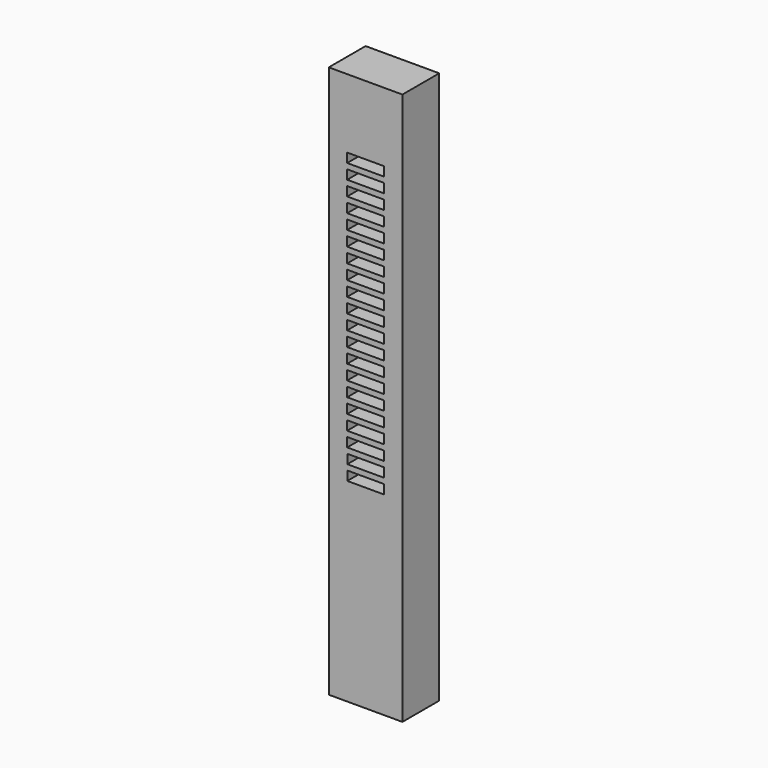
from build123d import *

# Parameters (mm, degrees)
F0_W     = 200
F0_H     = 1500
F0_W_2   = 100
F0_H_2   = 25
F1_DEPTH = 20
F2_W     = 200
F2_H     = 1500
F2_W_2   = 160
F2_H_2   = 1450
F3_DEPTH = 60
F4_W     = 200
F4_H     = 1500
F5_DEPTH = 20
F6_DEPTH = 25


with BuildPart() as f1:
    # F0 (on Front) → F1 (new body)
    with BuildSketch(Plane.XZ):
        Rectangle(F0_W, F0_H)
        with Locations((0.320368, -209.9976)):
            Rectangle(F0_W_2, F0_H_2, mode=Mode.SUBTRACT)
        with Locations((0.320368, -169.9976)):
            Rectangle(F0_W_2, F0_H_2, mode=Mode.SUBTRACT)
        with Locations((0.052069, -130)):
            Rectangle(F0_W_2, F0_H_2, mode=Mode.SUBTRACT)
        with Locations((0, -90)):
            Rectangle(F0_W_2, F0_H_2, mode=Mode.SUBTRACT)
        with Locations((0, -50)):
            Rectangle(F0_W_2, F0_H_2, mode=Mode.SUBTRACT)
        with Locations((0, -10)):
            Rectangle(F0_W_2, F0_H_2, mode=Mode.SUBTRACT)
        with Locations((0, 30)):
            Rectangle(F0_W_2, F0_H_2, mode=Mode.SUBTRACT)
        with Locations((0, 70)):
            Rectangle(F0_W_2, F0_H_2, mode=Mode.SUBTRACT)
        with Locations((0, 110)):
            Rectangle(F0_W_2, F0_H_2, mode=Mode.SUBTRACT)
        with Locations((0, 150)):
            Rectangle(F0_W_2, F0_H_2, mode=Mode.SUBTRACT)
        with Locations((0, 190)):
            Rectangle(F0_W_2, F0_H_2, mode=Mode.SUBTRACT)
        with Locations((0, 230)):
            Rectangle(F0_W_2, F0_H_2, mode=Mode.SUBTRACT)
        with Locations((0, 270)):
            Rectangle(F0_W_2, F0_H_2, mode=Mode.SUBTRACT)
        with Locations((0, 310)):
            Rectangle(F0_W_2, F0_H_2, mode=Mode.SUBTRACT)
        with Locations((0, 350)):
            Rectangle(F0_W_2, F0_H_2, mode=Mode.SUBTRACT)
        with Locations((0, 390)):
            Rectangle(F0_W_2, F0_H_2, mode=Mode.SUBTRACT)
        with Locations((0, 430)):
            Rectangle(F0_W_2, F0_H_2, mode=Mode.SUBTRACT)
        with Locations((0, 470)):
            Rectangle(F0_W_2, F0_H_2, mode=Mode.SUBTRACT)
        with Locations((0, 510)):
            Rectangle(F0_W_2, F0_H_2, mode=Mode.SUBTRACT)
        with Locations((0, 550)):
            Rectangle(F0_W_2, F0_H_2, mode=Mode.SUBTRACT)
    extrude(amount=-F1_DEPTH)

    # F2 (on face) → F3 (join)
    with BuildSketch(Plane(origin=(0, 20, 0), x_dir=(-1, 0, 0), z_dir=(0, 1, 0))):
        Rectangle(F2_W, F2_H)
        Rectangle(F2_W_2, F2_H_2, mode=Mode.SUBTRACT)
    extrude(amount=F3_DEPTH)

    # F4 (on face) → F5 (join)
    with BuildSketch(Plane(origin=(0, 80, 0), x_dir=(-1, 0, 0), z_dir=(0, 1, 0))):
        Rectangle(F4_W, F4_H)
    extrude(amount=F5_DEPTH)

    # F0 (on Front) → F6 (join)
    with BuildSketch(Plane.XZ):
        Rectangle(F0_W, F0_H)
        with Locations((0.320368, -209.9976)):
            Rectangle(F0_W_2, F0_H_2, mode=Mode.SUBTRACT)
        with Locations((0.320368, -169.9976)):
            Rectangle(F0_W_2, F0_H_2, mode=Mode.SUBTRACT)
        with Locations((0.052069, -130)):
            Rectangle(F0_W_2, F0_H_2, mode=Mode.SUBTRACT)
        with Locations((0, -90)):
            Rectangle(F0_W_2, F0_H_2, mode=Mode.SUBTRACT)
        with Locations((0, -50)):
            Rectangle(F0_W_2, F0_H_2, mode=Mode.SUBTRACT)
        with Locations((0, -10)):
            Rectangle(F0_W_2, F0_H_2, mode=Mode.SUBTRACT)
        with Locations((0, 30)):
            Rectangle(F0_W_2, F0_H_2, mode=Mode.SUBTRACT)
        with Locations((0, 70)):
            Rectangle(F0_W_2, F0_H_2, mode=Mode.SUBTRACT)
        with Locations((0, 110)):
            Rectangle(F0_W_2, F0_H_2, mode=Mode.SUBTRACT)
        with Locations((0, 150)):
            Rectangle(F0_W_2, F0_H_2, mode=Mode.SUBTRACT)
        with Locations((0, 190)):
            Rectangle(F0_W_2, F0_H_2, mode=Mode.SUBTRACT)
        with Locations((0, 230)):
            Rectangle(F0_W_2, F0_H_2, mode=Mode.SUBTRACT)
        with Locations((0, 270)):
            Rectangle(F0_W_2, F0_H_2, mode=Mode.SUBTRACT)
        with Locations((0, 310)):
            Rectangle(F0_W_2, F0_H_2, mode=Mode.SUBTRACT)
        with Locations((0, 350)):
            Rectangle(F0_W_2, F0_H_2, mode=Mode.SUBTRACT)
        with Locations((0, 390)):
            Rectangle(F0_W_2, F0_H_2, mode=Mode.SUBTRACT)
        with Locations((0, 430)):
            Rectangle(F0_W_2, F0_H_2, mode=Mode.SUBTRACT)
        with Locations((0, 470)):
            Rectangle(F0_W_2, F0_H_2, mode=Mode.SUBTRACT)
        with Locations((0, 510)):
            Rectangle(F0_W_2, F0_H_2, mode=Mode.SUBTRACT)
        with Locations((0, 550)):
            Rectangle(F0_W_2, F0_H_2, mode=Mode.SUBTRACT)
    extrude(amount=F6_DEPTH)


solid = f1.part
